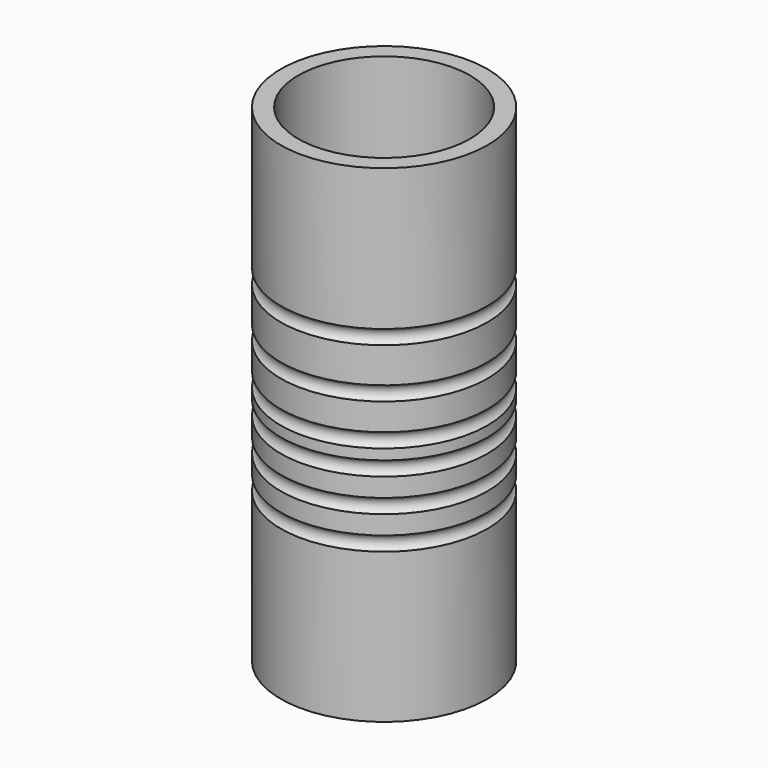
from build123d import *

# Parameters (mm, degrees)
TORUS001002001_R  = 1
TORUS001002_R     = 1
TORUS001001_R     = 1
TORUS001_R        = 1
TORUS_R           = 1
TORUS001002002_R  = 1
CYLINDER001_R     = 10.4
CYLINDER001_DEPTH = 59
CYLINDER_R        = 12.5
CYLINDER_DEPTH    = 59


with BuildPart() as torus001002001:
    # Torus001002001 → Torus001002001 (revolve)
    with BuildSketch(Plane(origin=(0, 0, 19), x_dir=(1, 0, 0), z_dir=(0, -1, 0))):
        with Locations((13, 0)):
            Circle(TORUS001002001_R)
    revolve(axis=Axis((0, 0, 19), (0, 0, 1)))


with BuildPart() as torus001002:
    # Torus001002 → Torus001002 (revolve)
    with BuildSketch(Plane(origin=(0, 0, 23), x_dir=(1, 0, 0), z_dir=(0, -1, 0))):
        with Locations((13, 0)):
            Circle(TORUS001002_R)
    revolve(axis=Axis((0, 0, 23), (0, 0, 1)))


with BuildPart() as torus001001:
    # Torus001001 → Torus001001 (revolve)
    with BuildSketch(Plane(origin=(0, 0, 27), x_dir=(1, 0, 0), z_dir=(0, -1, 0))):
        with Locations((13, 0)):
            Circle(TORUS001001_R)
    revolve(axis=Axis((0, 0, 27), (0, 0, 1)))


with BuildPart() as torus001:
    # Torus001 → Torus001 (revolve)
    with BuildSketch(Plane(origin=(0, 0, 30), x_dir=(1, 0, 0), z_dir=(0, -1, 0))):
        with Locations((13, 0)):
            Circle(TORUS001_R)
    revolve(axis=Axis((0, 0, 30), (0, 0, 1)))


with BuildPart() as torus:
    # Torus → Torus (revolve)
    with BuildSketch(Plane(origin=(0, 0, 35), x_dir=(1, 0, 0), z_dir=(0, -1, 0))):
        with Locations((13, 0)):
            Circle(TORUS_R)
    revolve(axis=Axis((0, 0, 35), (0, 0, 1)))


with BuildPart() as torus001002002:
    # Torus001002002 → Torus001002002 (revolve)
    with BuildSketch(Plane(origin=(0, 0, 41), x_dir=(1, 0, 0), z_dir=(0, -1, 0))):
        with Locations((13, 0)):
            Circle(TORUS001002002_R)
    revolve(axis=Axis((0, 0, 41), (0, 0, 1)))


with BuildPart() as cylinder001:
    # Cylinder001 → Cylinder001 (new body)
    with BuildSketch(Plane.XY):
        Circle(CYLINDER001_R)
    extrude(amount=CYLINDER001_DEPTH)


with BuildPart() as cut006:
    # Cylinder → Cylinder (new body)
    with BuildSketch(Plane.XY):
        Circle(CYLINDER_R)
    extrude(amount=CYLINDER_DEPTH)

    # Cut: cut Cylinder001
    add(cylinder001.part, mode=Mode.SUBTRACT)

    # Cut001: cut Torus001002002
    add(torus001002002.part, mode=Mode.SUBTRACT)

    # Cut002: cut Torus
    add(torus.part, mode=Mode.SUBTRACT)

    # Cut003: cut Torus001
    add(torus001.part, mode=Mode.SUBTRACT)

    # Cut004: cut Torus001001
    add(torus001001.part, mode=Mode.SUBTRACT)

    # Cut005: cut Torus001002
    add(torus001002.part, mode=Mode.SUBTRACT)

    # Cut006: cut Torus001002001
    add(torus001002001.part, mode=Mode.SUBTRACT)


solid = cut006.part
